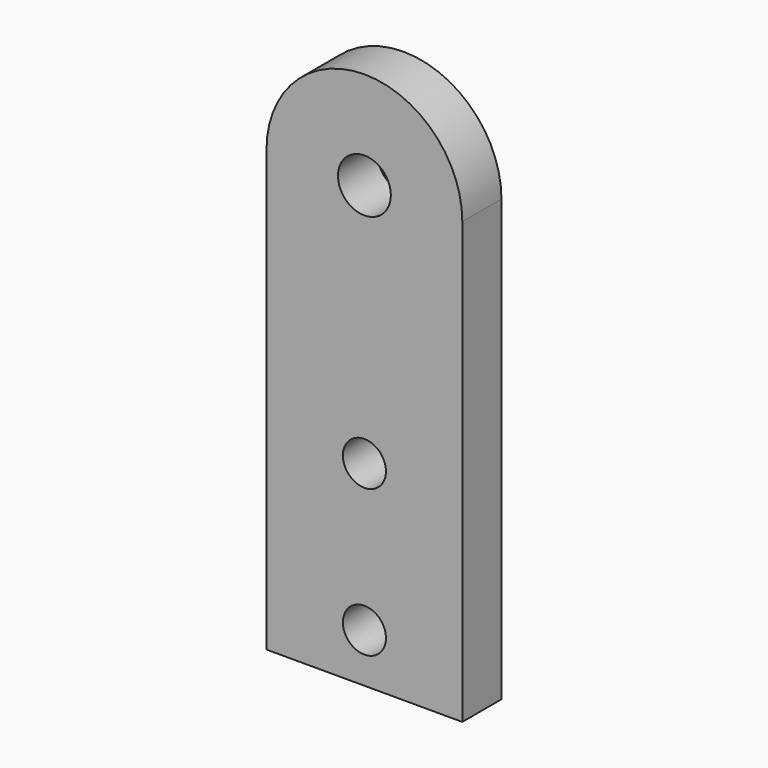
from build123d import *

# Parameters (mm, degrees)
F0_R     = 2.2
F0_R_2   = 2.7
F1_DEPTH = 5


with BuildPart() as f1:
    # F0 (on Front) → F1 (new body)
    with BuildSketch(Plane.XZ):
        with BuildLine():
            Line((-10, 0), (-10, -45))
            Line((-10, -45), (10, -45))
            Line((10, -45), (10, 0))
            ThreePointArc((10, 0), (0, 10), (-10, 0))
        make_face()
        with Locations((0, -40)):
            Circle(F0_R, mode=Mode.SUBTRACT)
        with Locations((0, -25)):
            Circle(F0_R, mode=Mode.SUBTRACT)
        Circle(F0_R_2, mode=Mode.SUBTRACT)
    extrude(amount=F1_DEPTH)


solid = f1.part
